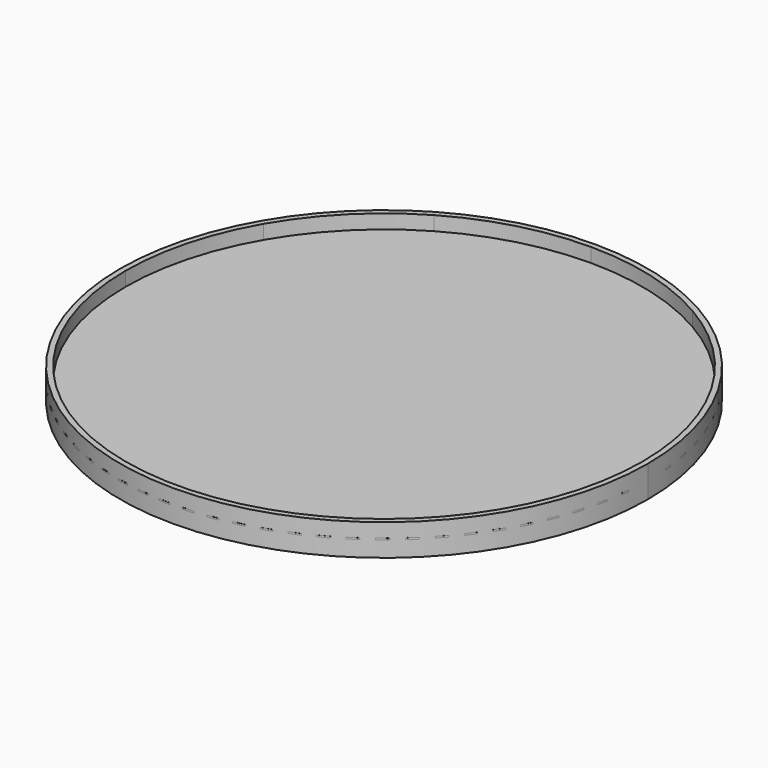
from build123d import *

# Parameters (mm, degrees)
F1_R     = 2133.6
F2_DEPTH = 12.7
F3_DEPTH = 127


with BuildPart() as f2:
    # F1 (on Top) → F2 (new body)
    with BuildSketch(Plane.XY):
        Circle(F1_R)
    extrude(amount=F2_DEPTH)


with BuildPart() as f3:
    # F0 (on Top) → F3 (new body, symmetric)
    with BuildSketch(Plane.XY):
        with BuildLine():
            Line((2089.15, 0), (2133.6, 0))
            ThreePointArc((2133.6, 0), (2060.899343, 552.216315), (1847.751802, 1066.8))
            Line((1847.751802, 1066.8), (1809.256972, 1044.575))
            ThreePointArc((1809.256972, 1044.575), (2017.96394, 540.711808), (2089.15, 0))
        make_face()
        with BuildLine():
            ThreePointArc((-2133.6, 0), (0, -2133.6), (2133.6, 0))
            Line((2133.6, 0), (2089.15, 0))
            ThreePointArc((2089.15, 0), (0, -2089.15), (-2089.15, 0))
            Line((-2089.15, 0), (-2133.6, 0))
        make_face()
        with BuildLine():
            Line((1809.256972, 1044.575), (1847.751802, 1066.8))
            ThreePointArc((1847.751802, 1066.8), (1508.683028, 1508.683028), (1066.8, 1847.751802))
            Line((1066.8, 1847.751802), (1044.575, 1809.256972))
            ThreePointArc((1044.575, 1809.256972), (1477.252132, 1477.252132), (1809.256972, 1044.575))
        make_face()
        with BuildLine():
            ThreePointArc((-1847.751802, 1066.8), (-2060.899343, 552.216315), (-2133.6, 0))
            Line((-2133.6, 0), (-2089.15, 0))
            ThreePointArc((-2089.15, 0), (-2017.96394, 540.711808), (-1809.256972, 1044.575))
            Line((-1809.256972, 1044.575), (-1847.751802, 1066.8))
        make_face()
        with BuildLine():
            Line((1044.575, 1809.256972), (1066.8, 1847.751802))
            ThreePointArc((1066.8, 1847.751802), (552.216315, 2060.899343), (0, 2133.6))
            Line((0, 2133.6), (0, 2089.15))
            ThreePointArc((0, 2089.15), (540.711808, 2017.96394), (1044.575, 1809.256972))
        make_face()
        with BuildLine():
            ThreePointArc((-1066.8, 1847.751802), (-1508.683028, 1508.683028), (-1847.751802, 1066.8))
            Line((-1847.751802, 1066.8), (-1809.256972, 1044.575))
            ThreePointArc((-1809.256972, 1044.575), (-1477.252132, 1477.252132), (-1044.575, 1809.256972))
            Line((-1044.575, 1809.256972), (-1066.8, 1847.751802))
        make_face()
        with BuildLine():
            Line((0, 2089.15), (0, 2133.6))
            ThreePointArc((0, 2133.6), (-552.216315, 2060.899343), (-1066.8, 1847.751802))
            Line((-1066.8, 1847.751802), (-1044.575, 1809.256972))
            ThreePointArc((-1044.575, 1809.256972), (-540.711808, 2017.96394), (0, 2089.15))
        make_face()
    extrude(amount=F3_DEPTH, both=True)


solid = Compound([f2.part, f3.part])
